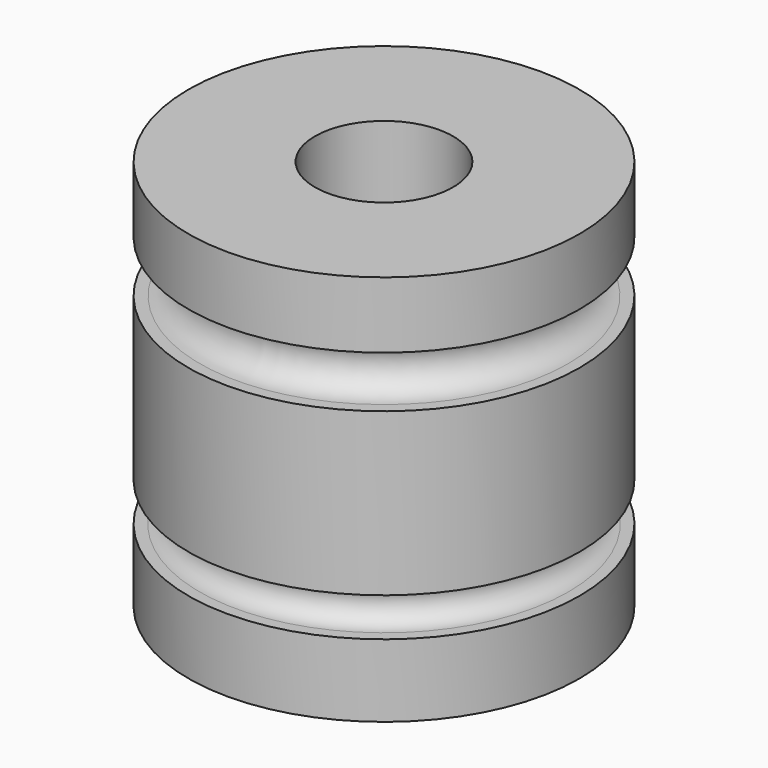
from build123d import *


with BuildPart() as f1:
    # F0 (on Front) → F1 (revolve)
    with BuildSketch(Plane.XZ):
        with BuildLine():
            Line((-26.9748, 0), (-9.525, 0))
            Line((-9.525, 0), (-9.525, 53.975))
            Line((-9.525, 53.975), (-26.9748, 53.975))
            Line((-26.9748, 53.975), (-26.9748, 44.830383))
            Line((-26.9748, 44.830383), (-25.517052, 44.830383))
            ThreePointArc((-25.517052, 44.830383), (-21.895214, 41.329264), (-25.408524, 37.719251))
            ThreePointArc((-25.408524, 37.719251), (-25.4508, 37.719), (-25.493076, 37.719251))
            Line((-25.493076, 37.719251), (-26.9748, 37.719251))
            Line((-26.9748, 37.719251), (-26.9748, 15.37081))
            Line((-26.9748, 15.37081), (-25.4508, 15.37081))
            ThreePointArc((-25.4508, 15.37081), (-22.77999, 12.7), (-25.4508, 10.02919))
            Line((-25.4508, 10.02919), (-26.9748, 10.02919))
            Line((-26.9748, 10.02919), (-26.9748, 0))
        make_face()
        with BuildLine():
            ThreePointArc((-25.493076, 37.719251), (-25.4508, 37.719), (-25.408524, 37.719251))
            Line((-25.408524, 37.719251), (-25.493076, 37.719251))
        make_face()
    revolve(axis=Axis((0, 0, 17.05089), (0, 0, 1)))


solid = f1.part
